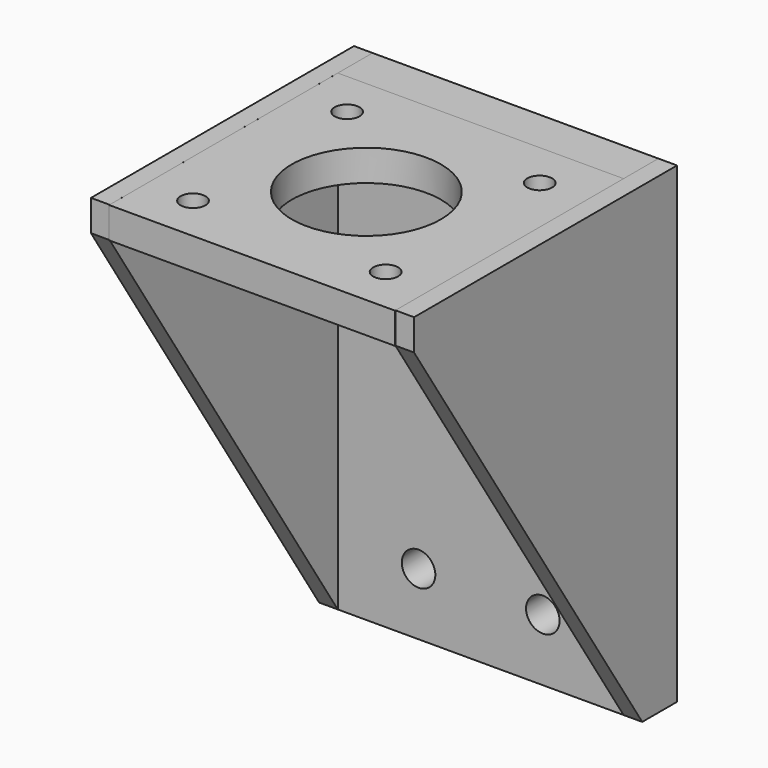
from build123d import *

# Parameters (mm, degrees)
SKETCH_W                                  = 46
SKETCH_H                                  = 46
SKETCH_R                                  = 2
SKETCH_R_2                                = 12
EXTRUDE_DEPTH                             = 5
SKETCH001_AS_DRAWN_W                      = 46
SKETCH001_AS_DRAWN_H                      = 76
SKETCH001_AS_DRAWN_R                      = 2.7
EXTRUDE001_DEPTH                          = 7
EXTRUDE001_ONTO_SKETCH001_ROLL_ANGLE      = 90
EXTRUDE001_ONTO_SKETCH001_PLACEMENT_ANGLE = 180
EXTRUDE002_DEPTH                          = 7
EXTRUDE002_ONTO_SKETCH001_ROLL_ANGLE      = 90
EXTRUDE002_ONTO_SKETCH001_PLACEMENT_ANGLE = 180
EXTRUDE003_DEPTH                          = 3
EXTRUDE004_DEPTH                          = 3
EXTRUDE005_DEPTH                          = 3


with BuildPart() as extrude_body:
    # Sketch → Extrude (new body)
    with BuildSketch(Plane.XY):
        with Locations((23, -23)):
            Rectangle(SKETCH_W, SKETCH_H)
        with Locations((7.5, -7.5)):
            Circle(SKETCH_R, mode=Mode.SUBTRACT)
        with Locations((7.5, -38.5)):
            Circle(SKETCH_R, mode=Mode.SUBTRACT)
        with Locations((38.5, -7.5)):
            Circle(SKETCH_R, mode=Mode.SUBTRACT)
        with Locations((38.5, -38.5)):
            Circle(SKETCH_R, mode=Mode.SUBTRACT)
        with Locations((23, -23)):
            Circle(SKETCH_R_2, mode=Mode.SUBTRACT)
    extrude(amount=EXTRUDE_DEPTH)


with BuildPart() as extrude001:
    # Sketch001 as drawn → Extrude001 (new)
    with BuildSketch(Plane.XY):
        with Locations((-23, -33)):
            Rectangle(SKETCH001_AS_DRAWN_W, SKETCH001_AS_DRAWN_H)
        with Locations((-33, -61)):
            Circle(SKETCH001_AS_DRAWN_R, mode=Mode.SUBTRACT)
        with Locations((-13, -61)):
            Circle(SKETCH001_AS_DRAWN_R, mode=Mode.SUBTRACT)
    extrude(amount=EXTRUDE001_DEPTH)


with BuildPart() as extrude001_1:
    # Extrude001 onto Sketch001 roll: moved
    add(extrude001.part.rotate(Axis((0, 0, 0), (1, 0, 0)), EXTRUDE001_ONTO_SKETCH001_ROLL_ANGLE))


with BuildPart() as extrude001_2:
    # Extrude001 onto Sketch001 placement: moved
    add(extrude001_1.part.rotate(Axis((0, 0, 0), (0, 0, 1)), EXTRUDE001_ONTO_SKETCH001_PLACEMENT_ANGLE))


with BuildPart() as extrude002:
    # Sketch001 as drawn → Extrude002 (new)
    with BuildSketch(Plane.XY):
        with Locations((-23, -33)):
            Rectangle(SKETCH001_AS_DRAWN_W, SKETCH001_AS_DRAWN_H)
        with Locations((-33, -61)):
            Circle(SKETCH001_AS_DRAWN_R, mode=Mode.SUBTRACT)
        with Locations((-13, -61)):
            Circle(SKETCH001_AS_DRAWN_R, mode=Mode.SUBTRACT)
    extrude(amount=EXTRUDE002_DEPTH)


with BuildPart() as extrude002_1:
    # Extrude002 onto Sketch001 roll: moved
    add(extrude002.part.rotate(Axis((0, 0, 0), (1, 0, 0)), EXTRUDE002_ONTO_SKETCH001_ROLL_ANGLE))


with BuildPart() as extrude002_2:
    # Extrude002 onto Sketch001 placement: moved
    add(extrude002_1.part.rotate(Axis((0, 0, 0), (0, 0, 1)), EXTRUDE002_ONTO_SKETCH001_PLACEMENT_ANGLE))


with BuildPart() as extrude003:
    # Sketch002 → Extrude003 (new body)
    with BuildSketch(Plane.YZ.offset(46)):
        Polygon((7, 5.000938), (7, -71), (0, -71), (-45.90527, 0), (-45.90527, 5.000938), align=None)
    extrude(amount=EXTRUDE003_DEPTH)


with BuildPart() as extrude004:
    # Sketch002 → Extrude004 (new body)
    with BuildSketch(Plane.YZ.offset(46)):
        Polygon((7, 5.000938), (7, -71), (0, -71), (-45.90527, 0), (-45.90527, 5.000938), align=None)
    extrude(amount=EXTRUDE004_DEPTH)


with BuildPart() as extrude005:
    # Sketch002 → Extrude005 (new body)
    with BuildSketch(Plane.YZ.offset(46)):
        Polygon((7, 5.000938), (7, -71), (0, -71), (-45.90527, 0), (-45.90527, 5.000938), align=None)
    extrude(amount=EXTRUDE005_DEPTH)


with BuildPart() as extrude005_1:
    # Extrude005 placement: moved
    add(extrude005.part.moved(Location((-49, 0, 0))))


solid = Compound([extrude_body.part, extrude001_2.part, extrude002_2.part, extrude003.part, extrude004.part, extrude005_1.part])
